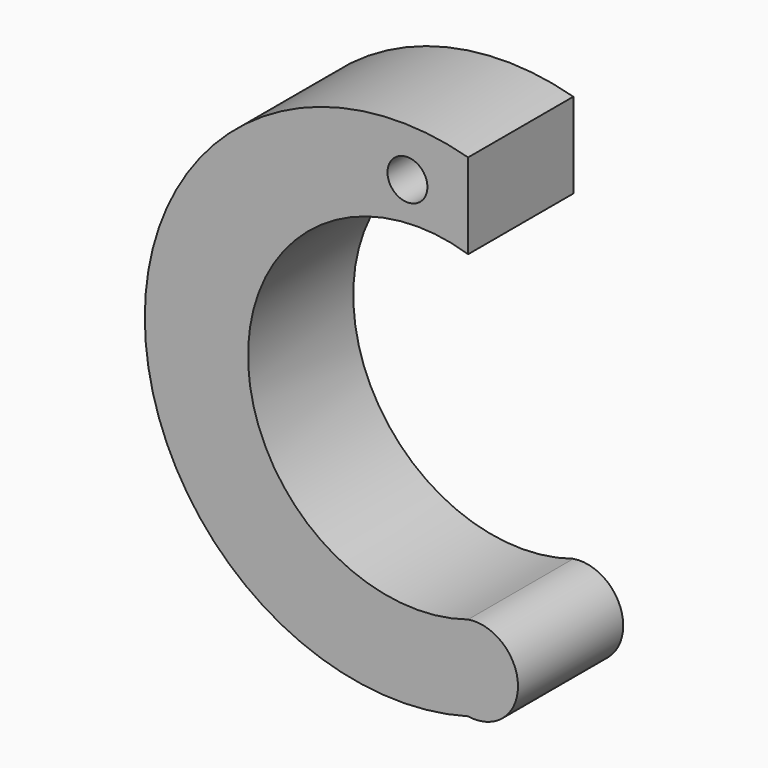
from build123d import *

# Parameters (mm, degrees)
F0_R     = 3.121691
F1_DEPTH = 20.574


with BuildPart() as f1:
    # F0 (on Front) → F1 (new body)
    with BuildSketch(Plane.XZ):
        with BuildLine():
            Line((0, 28.73937), (0, 42.082649))
            ThreePointArc((0, 42.082649), (-50.585156, 3.592419), (0, -34.897812))
            ThreePointArc((0, -34.897812), (7.803079, -28.230312), (0, -21.562812))
            ThreePointArc((0, -21.562812), (-34.431843, 3.588279), (0, 28.73937))
        make_face()
        with Locations((-9.494251, 35.924211)):
            Circle(F0_R, mode=Mode.SUBTRACT)
    extrude(amount=F1_DEPTH)


solid = f1.part
